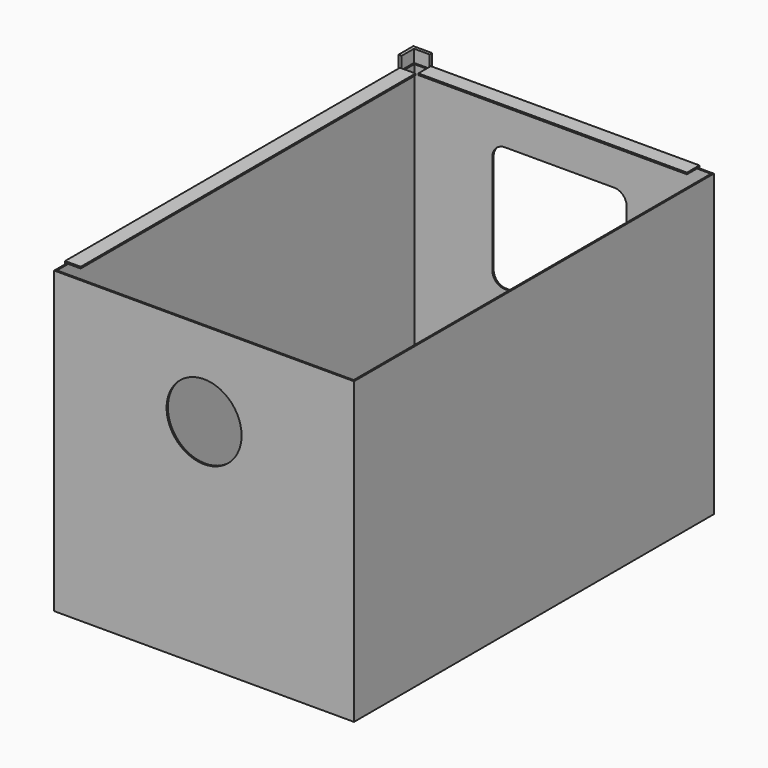
from build123d import *

# Parameters (mm, degrees)
F0_W      = 609.6
F0_H      = 914.4
F1_DEPTH  = 609.6
F2_W      = 603.25
F2_H      = 908.05
F3_DEPTH  = 603.25
F4_R      = 76.2
F5_DEPTH  = 3.175
F7_DEPTH  = 889
F8_DEPTH  = 25.4
F9_R      = 38.1
F10_DEPTH = 6.35
F12_DEPTH = 3.175
F13_W     = 28.575
F13_H     = 3.175
F14_DEPTH = 546.1
F15_W     = 28.575
F15_H     = 3.175
F16_DEPTH = 850.9


with BuildPart() as f1:
    # F0 (on Top) → F1 (new body)
    with BuildSketch(Plane.XY):
        with Locations((304.8, -457.2)):
            Rectangle(F0_W, F0_H)
    extrude(amount=F1_DEPTH)

    # F2 (on face) → F3 (cut)
    with BuildSketch(Plane.XY.offset(609.6)):
        with Locations((304.8, -457.2)):
            Rectangle(F2_W, F2_H)
    extrude(amount=-F3_DEPTH, mode=Mode.SUBTRACT)

    # F4 (on face) → F5 (cut)
    with BuildSketch(Plane.XZ.offset(914.4)):
        with Locations((304.8, 438.15)):
            Circle(F4_R)
    extrude(amount=-F5_DEPTH, mode=Mode.SUBTRACT)

    # F11 (on face) → F12 (cut)
    with BuildSketch(Plane(origin=(0, 0, 0), x_dir=(-1, 0, 0), z_dir=(0, 1, 0))):
        with BuildLine():
            Line((-187.325, 520.7), (-409.575, 520.7))
            ThreePointArc((-409.575, 520.7), (-427.5355122421, 513.2605122421), (-434.975, 495.3))
            Line((-434.975, 495.3), (-434.975, 292.1))
            ThreePointArc((-434.975, 292.1), (-427.5355122421, 274.1394877579), (-409.575, 266.7))
            Line((-409.575, 266.7), (-187.325, 266.7))
            ThreePointArc((-187.325, 266.7), (-169.3644877579, 274.1394877579), (-161.925, 292.1))
            Line((-161.925, 292.1), (-161.925, 495.3))
            ThreePointArc((-161.925, 495.3), (-169.3644877579, 513.2605122421), (-187.325, 520.7))
        make_face()
    extrude(amount=-F12_DEPTH, mode=Mode.SUBTRACT)


with BuildPart() as f7:
    # F6 (on face) → F7 (new body)
    with BuildSketch(Plane.XY.offset(609.6)):
        Polygon((-6.35, -31.75), (0, -31.75), (0, 0), (31.75, 0), (31.75, 6.35), (-6.35, 6.35), align=None)
    extrude(amount=-F7_DEPTH)

    # F8 (add): a face of the model
    f8_faces = [f7.faces().sort_by_distance(p)[0] for p in [
        (-5.8111846327, -12.7, 609.6),
    ]]
    extrude(f8_faces, amount=F8_DEPTH)

    # F9 (on face) → F10 (join)
    with BuildSketch(Plane(origin=(0, 0, -279.4), x_dir=(1, 0, 0), z_dir=(0, 0, -1))):
        Circle(F9_R)
    extrude(amount=F10_DEPTH)


with BuildPart() as f14:
    # F13 (on face) → F14 (new body)
    with BuildSketch(Plane.YZ.offset(31.75)):
        Polygon((0, 609.6), (0, 581.025), (3.175, 581.025), (3.175, 612.775), (0, 612.775), align=None)
        with Locations((-14.2875, 611.1875)):
            Rectangle(F13_W, F13_H)
    extrude(amount=F14_DEPTH)


with BuildPart() as f16:
    # F15 (on face) → F16 (new body)
    with BuildSketch(Plane.XZ.offset(31.75)):
        Polygon((0, 581.025), (0, 609.6), (0, 612.775), (-3.175, 612.775), (-3.175, 581.025), align=None)
        with Locations((14.2875, 611.1875)):
            Rectangle(F15_W, F15_H)
    extrude(amount=F16_DEPTH)


solid = Compound([f1.part, f7.part, f14.part, f16.part])
